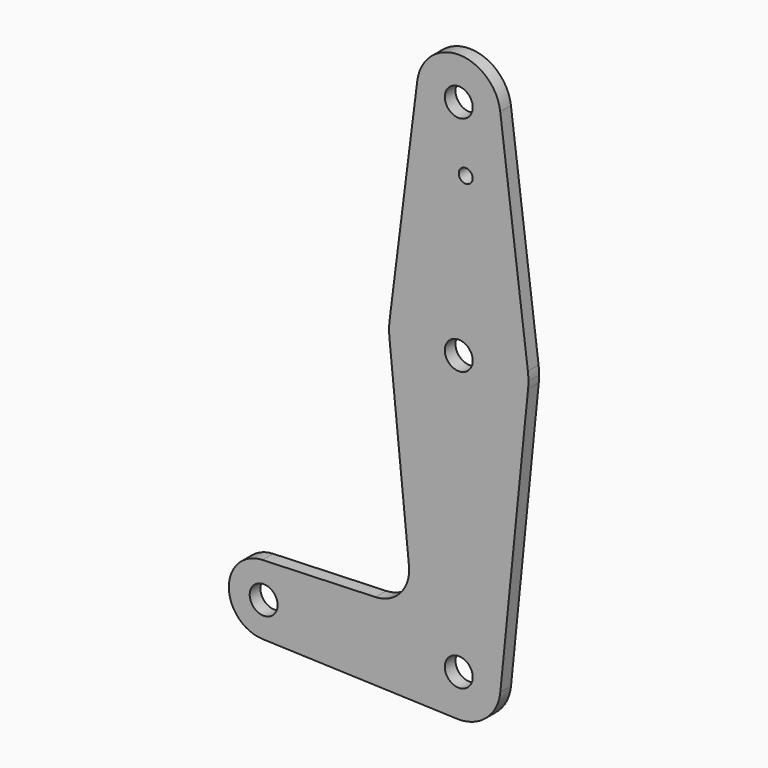
from build123d import *

# Parameters (mm, degrees)
F0_R     = 1.5875
F0_R_2   = 3.175
F1_DEPTH = 3.048


with BuildPart() as f1:
    # F0 (on Front) → F1 (new body)
    with BuildSketch(Plane.XZ):
        with BuildLine():
            ThreePointArc((9.450293, 51.990625), (9.506305, 51.396483), (9.525, 50.8))
            ThreePointArc((9.525, 50.8), (-0.596483, 41.293695), (-9.450293, 51.990625))
            Line((-9.450293, 51.990625), (-15.750488, 1.984375))
            ThreePointArc((-15.750488, 1.984375), (0, 15.875), (15.750488, 1.984375))
            Line((15.750488, 1.984375), (9.450293, 51.990625))
        make_face()
        with Locations((1.5875, 36.5252)):
            Circle(F0_R, mode=Mode.SUBTRACT)
        with BuildLine():
            ThreePointArc((-9.450293, 51.990625), (-0.596483, 41.293695), (9.525, 50.8))
            ThreePointArc((9.525, 50.8), (9.506305, 51.396483), (9.450293, 51.990625))
            ThreePointArc((9.450293, 51.990625), (0, 60.325), (-9.450293, 51.990625))
        make_face()
        with Locations((0, 50.8)):
            Circle(F0_R_2, mode=Mode.SUBTRACT)
        with BuildLine():
            ThreePointArc((15.875, 0), (15.843841, 0.994139), (15.750488, 1.984375))
            ThreePointArc((15.750488, 1.984375), (0, 15.875), (-15.750488, 1.984375))
            ThreePointArc((-15.750488, 1.984375), (-15.873744, 0.199705), (-15.795426, -1.5875))
            ThreePointArc((-15.795426, -1.5875), (0, -15.875), (15.795426, -1.5875))
            ThreePointArc((15.795426, -1.5875), (15.855094, -0.794747), (15.875, 0))
        make_face()
        Circle(F0_R_2, mode=Mode.SUBTRACT)
        with BuildLine():
            ThreePointArc((-0.340179, -73.018923), (6.262383, -70.67692), (9.477255, -64.4525))
            ThreePointArc((9.477255, -64.4525), (9.513056, -63.976848), (9.525, -63.5))
            ThreePointArc((9.525, -63.5), (-6.613827, -56.645592), (-0.340179, -73.018923))
        make_face()
        with Locations((0, -63.5)):
            Circle(F0_R_2, mode=Mode.SUBTRACT)
        with BuildLine():
            ThreePointArc((15.795426, -1.5875), (0, -15.875), (-15.795426, -1.5875))
            Line((-15.795426, -1.5875), (-11.341187, -45.906618))
            ThreePointArc((-11.341187, -45.906618), (-13.2612, -51.928641), (-18.9676, -54.646766))
            Line((-18.9676, -54.646766), (-44.733482, -55.567564))
            ThreePointArc((-44.733482, -55.567564), (-38.938477, -57.787993), (-36.5125, -63.5))
            ThreePointArc((-36.5125, -63.5), (-38.938477, -69.212007), (-44.733482, -71.432436))
            Line((-44.733482, -71.432436), (-0.340179, -73.018923))
            ThreePointArc((-0.340179, -73.018923), (-6.613827, -56.645592), (9.525, -63.5))
            ThreePointArc((9.525, -63.5), (9.513056, -63.976848), (9.477255, -64.4525))
            Line((9.477255, -64.4525), (15.795426, -1.5875))
        make_face()
        with BuildLine():
            ThreePointArc((-36.5125, -63.5), (-38.938477, -57.787993), (-44.733482, -55.567564))
            ThreePointArc((-44.733482, -55.567564), (-52.3875, -63.5), (-44.733482, -71.432436))
            ThreePointArc((-44.733482, -71.432436), (-38.938477, -69.212007), (-36.5125, -63.5))
        make_face()
        with Locations((-44.45, -63.5)):
            Circle(F0_R_2, mode=Mode.SUBTRACT)
    extrude(amount=F1_DEPTH)


solid = f1.part
